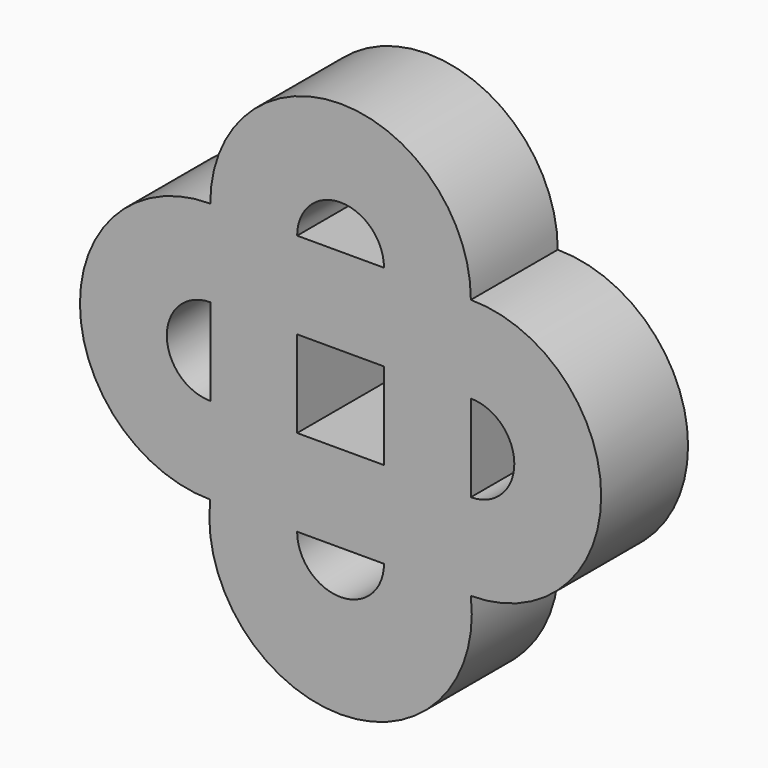
from build123d import *

# Parameters (mm, degrees)
F1_DEPTH = 25


with BuildPart() as f1:
    # F0 (on Front) → F1 (new body)
    with BuildSketch(Plane.XZ):
        with BuildLine():
            Line((-20, 31.504685), (-20, 11.504685))
            Line((-20, 11.504685), (0, 11.504685))
            Line((0, 11.504685), (20, 11.504685))
            ThreePointArc((20, 11.504685), (30, 1.504685), (20, -8.495315))
            Line((20, -8.495315), (20, -28.495315))
            ThreePointArc((20, -28.495315), (50, 1.504685), (20, 31.504685))
            Line((20, 31.504685), (0, 31.504685))
            Line((0, 31.504685), (-20, 31.504685))
        make_face()
        with BuildLine():
            Line((-20, -8.495315), (-20, 11.504685))
            Line((-20, 11.504685), (-20, 31.504685))
            ThreePointArc((-20, 31.504685), (-10, 41.504685), (0, 31.504685))
            Line((0, 31.504685), (20, 31.504685))
            ThreePointArc((20, 31.504685), (-10, 61.504685), (-40, 31.504685))
            Line((-40, 31.504685), (-40, 11.504685))
            Line((-40, 11.504685), (-40, -8.495315))
            Line((-40, -8.495315), (-20, -8.495315))
        make_face()
        with BuildLine():
            Line((20, 11.504685), (0, 11.504685))
            Line((0, 11.504685), (0, -8.495315))
            Line((0, -8.495315), (0, -28.495315))
            ThreePointArc((0, -28.495315), (-10, -38.495315), (-20, -28.495315))
            Line((-20, -28.495315), (-40, -28.495315))
            ThreePointArc((-40, -28.495315), (-10, -62.274487), (20, -28.495315))
            Line((20, -28.495315), (20, -8.495315))
            Line((20, -8.495315), (20, 11.504685))
        make_face()
        with BuildLine():
            Line((0, -8.495315), (-20, -8.495315))
            Line((-20, -8.495315), (-40, -8.495315))
            ThreePointArc((-40, -8.495315), (-50, 1.504685), (-40, 11.504685))
            Line((-40, 11.504685), (-40, 31.504685))
            ThreePointArc((-40, 31.504685), (-70, 1.504685), (-40, -28.495315))
            Line((-40, -28.495315), (-20, -28.495315))
            Line((-20, -28.495315), (0, -28.495315))
            Line((0, -28.495315), (0, -8.495315))
        make_face()
    extrude(amount=F1_DEPTH)


solid = f1.part
